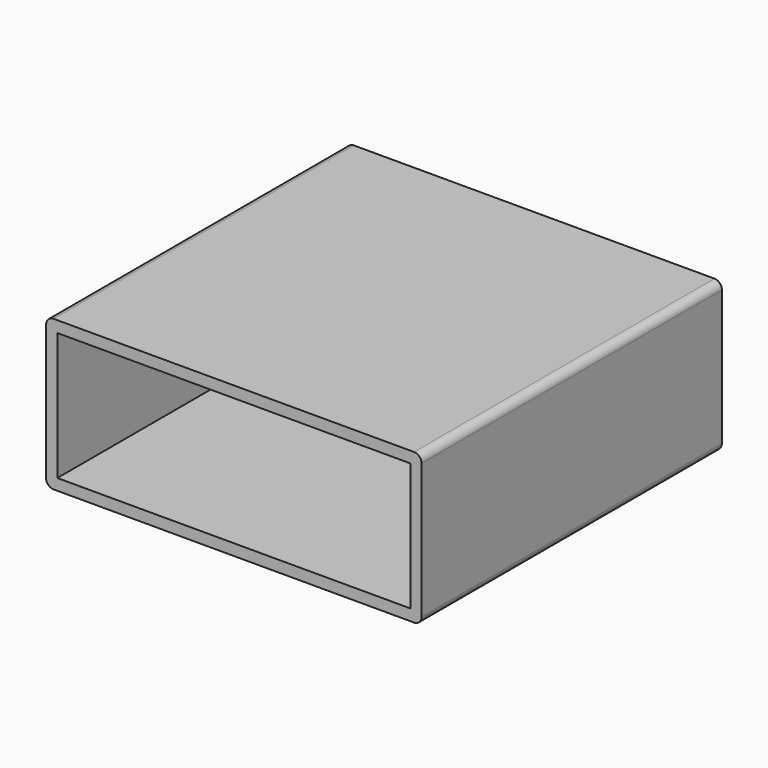
from build123d import *

# Parameters (mm, degrees)
F3_W     = 94
F3_H     = 34
F4_DEPTH = 50


with BuildPart() as f4:
    # F3 (on Front) → F4 (new body, symmetric)
    with BuildSketch(Plane.XZ):
        with BuildLine():
            ThreePointArc((-19.2521204937, -49.7380952381), (-18.6663340561, -51.1523088005), (-17.2521204937, -51.7380952381))
            Line((-17.2521204937, -51.7380952381), (78.7478795063, -51.7380952381))
            ThreePointArc((78.7478795063, -51.7380952381), (80.1620930687, -51.1523088005), (80.7478795063, -49.7380952381))
            Line((80.7478795063, -49.7380952381), (80.7478795063, -13.7380952381))
            ThreePointArc((80.7478795063, -13.7380952381), (80.1620930687, -12.3238816757), (78.7478795063, -11.7380952381))
            Line((78.7478795063, -11.7380952381), (-17.2521204937, -11.7380952381))
            ThreePointArc((-17.2521204937, -11.7380952381), (-18.6663340561, -12.3238816757), (-19.2521204937, -13.7380952381))
            Line((-19.2521204937, -13.7380952381), (-19.2521204937, -49.7380952381))
        make_face()
        with Locations((30.7478795063, -31.7380952381)):
            Rectangle(F3_W, F3_H, mode=Mode.SUBTRACT)
    extrude(amount=F4_DEPTH, both=True)


with BuildPart() as f5_1:
    # F5: copy of F4
    add(f4.part)


solid = f4.part
